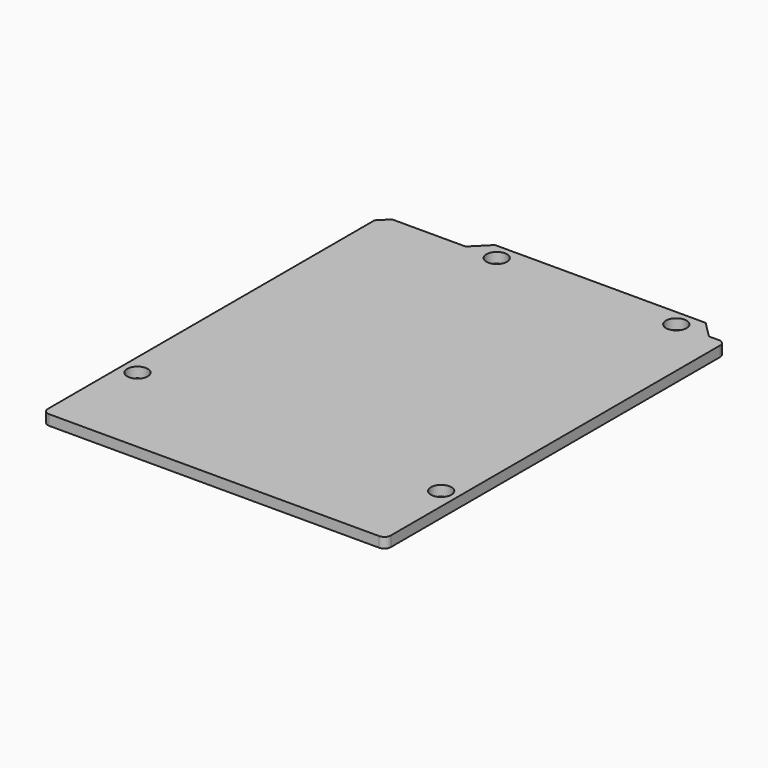
from build123d import *

# Parameters (mm, degrees)
SKETCH_R  = 1.6
PAD_DEPTH = 1.6


with BuildPart() as part:
    # Sketch → Pad (new body)
    with BuildSketch(Plane.XY):
        with BuildLine():
            Line((-10.87834, 42.048496), (21.88766, 42.048496))
            Line((21.88766, 42.048496), (24.42766, 39.508496))
            Line((24.42766, 39.508496), (25.96766, 39.508496))
            ThreePointArc((26.96766, 38.508496), (26.674767, 39.215603), (25.96766, 39.508496))
            Line((26.96766, 38.508496), (26.96766, -25.531504))
            ThreePointArc((25.96766, -26.531504), (26.674767, -26.238611), (26.96766, -25.531504))
            Line((25.96766, -26.531504), (-25.37234, -26.531504))
            ThreePointArc((-26.37234, -25.531504), (-26.079447, -26.238611), (-25.37234, -26.531504))
            Line((-26.37234, -25.531504), (-26.37234, 37.984496))
            Line((-26.37234, 37.984496), (-24.84834, 39.508496))
            Line((-24.84834, 39.508496), (-13.41834, 39.508496))
            Line((-13.41834, 39.508496), (-10.87834, 42.048496))
        make_face()
        with Locations((24.42766, -12.561504)):
            Circle(SKETCH_R, mode=Mode.SUBTRACT)
        with Locations((-23.83234, -11.291504)):
            Circle(SKETCH_R, mode=Mode.SUBTRACT)
        with Locations((-8.59234, 39.508496)):
            Circle(SKETCH_R, mode=Mode.SUBTRACT)
        with Locations((19.34766, 39.508496)):
            Circle(SKETCH_R, mode=Mode.SUBTRACT)
    extrude(amount=PAD_DEPTH)


solid = part.part
